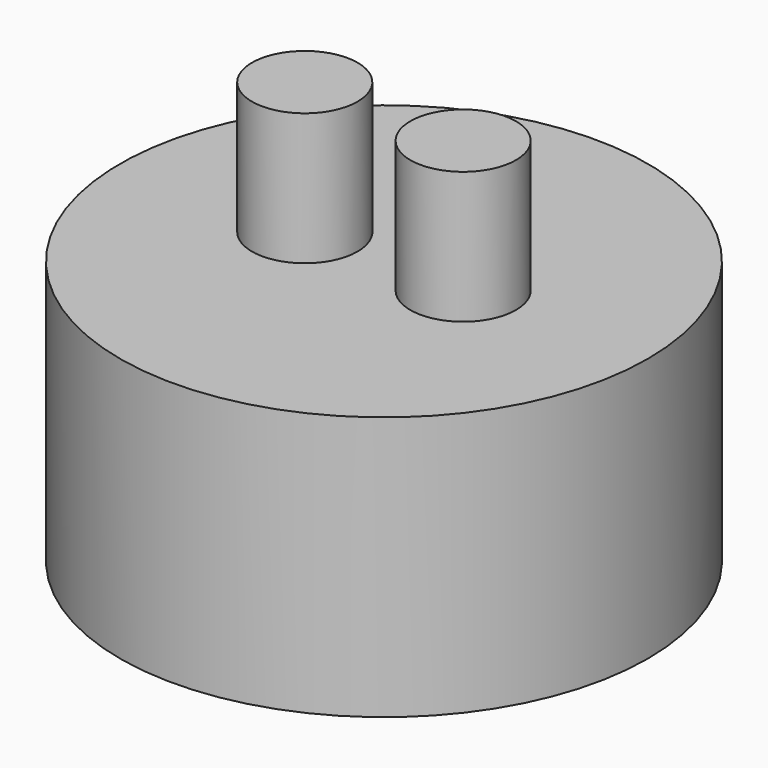
from build123d import *

# Parameters (mm, degrees)
F0_R     = 12.7
F1_DEPTH = 12.7
F2_R     = 2.54
F3_DEPTH = 6.35


with BuildPart() as f1:
    # F0 (on Top) → F1 (new body)
    with BuildSketch(Plane.XY):
        Circle(F0_R)
    extrude(amount=F1_DEPTH)

    # F2 (on face) → F3 (join)
    with BuildSketch(Plane.XY.offset(12.7)):
        with Locations((-3.81, 0)):
            Circle(F2_R)
        with Locations((3.81, 0)):
            Circle(F2_R)
    extrude(amount=F3_DEPTH)


solid = f1.part
